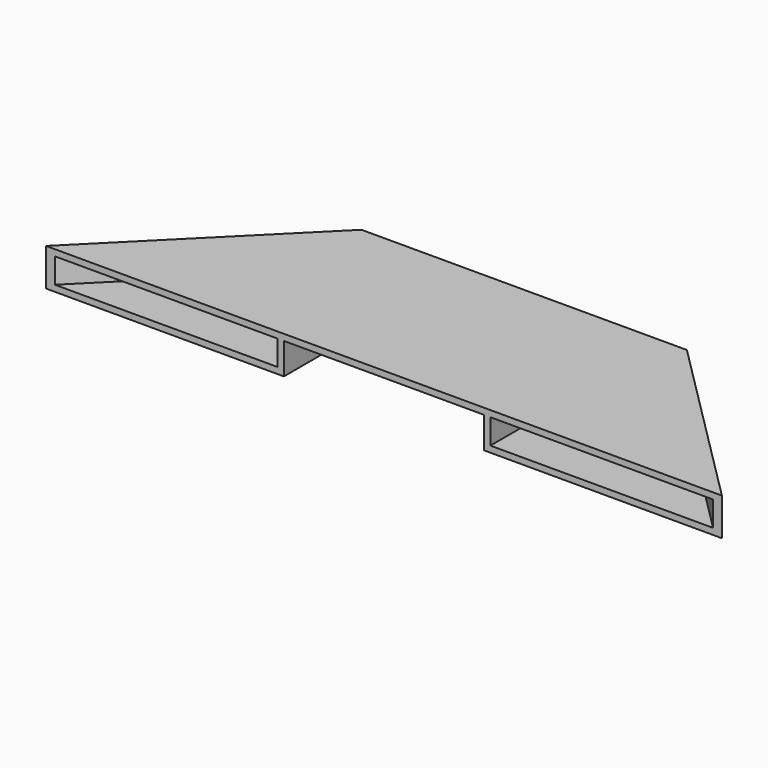
from build123d import *

# Parameters (mm, degrees)
F0_W     = 25
F0_H     = 450
F1_DEPTH = 125
F2_DEPTH = 25
F3_START = 124.9
F0_W_2   = 400
F3_DEPTH = 25.1


with BuildPart() as f1:
    # F0 (on Top) → F1 (new body)
    with BuildSketch(Plane.XY):
        Polygon((-864.6446609407, -250), (-900, -250), (-1350, -700), (-1314.6446609407, -700), align=None)
        Polygon((-839.6446609407, -225), (-875, -225), (-900, -250), (-864.6446609407, -250), align=None)
        Polygon((-614.6446609407, 0), (-650, 0), (-875, -225), (-839.6446609407, -225), (-639.6446609407, -25), align=None)
        Polygon((0, -225), (-839.6446609407, -225), (-864.6446609407, -250), (-425, -250), (-400, -250), (0, -250), align=None)
        Polygon((0, 0), (-614.6446609407, 0), (-639.6446609407, -25), (0, -25), align=None)
        Polygon((614.6446609407, 0), (0, 0), (0, -25), (639.6446609407, -25), align=None)
        Polygon((839.6446609407, -225), (0, -225), (0, -250), (400, -250), (425, -250), (864.6446609407, -250), align=None)
        with Locations((412.5, -475)):
            Rectangle(F0_W, F0_H)
        with Locations((-412.5, -475)):
            Rectangle(F0_W, F0_H)
        Polygon((650, 0), (614.6446609407, 0), (639.6446609407, -25), (839.6446609407, -225), (875, -225), align=None)
        Polygon((900, -250), (864.6446609407, -250), (1314.6446609407, -700), (1350, -700), align=None)
        Polygon((875, -225), (839.6446609407, -225), (864.6446609407, -250), (900, -250), align=None)
    extrude(amount=F1_DEPTH)

    # F0 (on Top) → F2 (join)
    with BuildSketch(Plane.XY):
        Polygon((1314.6446609407, -700), (864.6446609407, -250), (425, -250), (425, -700), align=None)
        Polygon((839.6446609407, -225), (0, -225), (0, -250), (400, -250), (425, -250), (864.6446609407, -250), align=None)
        Polygon((875, -225), (839.6446609407, -225), (864.6446609407, -250), (900, -250), align=None)
        Polygon((900, -250), (864.6446609407, -250), (1314.6446609407, -700), (1350, -700), align=None)
        Polygon((650, 0), (614.6446609407, 0), (639.6446609407, -25), (839.6446609407, -225), (875, -225), align=None)
        Polygon((639.6446609407, -25), (0, -25), (0, -225), (839.6446609407, -225), align=None)
        with Locations((412.5, -475)):
            Rectangle(F0_W, F0_H)
        Polygon((614.6446609407, 0), (0, 0), (0, -25), (639.6446609407, -25), align=None)
        Polygon((0, 0), (-614.6446609407, 0), (-639.6446609407, -25), (0, -25), align=None)
        Polygon((0, -25), (-639.6446609407, -25), (-839.6446609407, -225), (0, -225), align=None)
        Polygon((0, -225), (-839.6446609407, -225), (-864.6446609407, -250), (-425, -250), (-400, -250), (0, -250), align=None)
        with Locations((-412.5, -475)):
            Rectangle(F0_W, F0_H)
        Polygon((-425, -250), (-864.6446609407, -250), (-1314.6446609407, -700), (-425, -700), align=None)
        Polygon((-614.6446609407, 0), (-650, 0), (-875, -225), (-839.6446609407, -225), (-639.6446609407, -25), align=None)
        Polygon((-839.6446609407, -225), (-875, -225), (-900, -250), (-864.6446609407, -250), align=None)
        Polygon((-864.6446609407, -250), (-900, -250), (-1350, -700), (-1314.6446609407, -700), align=None)
    extrude(amount=F2_DEPTH)

    # F0 (on Top) → F3 (join)
    with BuildSketch(Plane.XY.offset(F3_START)):
        Polygon((-614.6446609407, 0), (-650, 0), (-875, -225), (-839.6446609407, -225), (-639.6446609407, -25), align=None)
        Polygon((0, 0), (-614.6446609407, 0), (-639.6446609407, -25), (0, -25), align=None)
        Polygon((-839.6446609407, -225), (-875, -225), (-900, -250), (-864.6446609407, -250), align=None)
        Polygon((614.6446609407, 0), (0, 0), (0, -25), (639.6446609407, -25), align=None)
        Polygon((-864.6446609407, -250), (-900, -250), (-1350, -700), (-1314.6446609407, -700), align=None)
        Polygon((650, 0), (614.6446609407, 0), (639.6446609407, -25), (839.6446609407, -225), (875, -225), align=None)
        Polygon((-425, -250), (-864.6446609407, -250), (-1314.6446609407, -700), (-425, -700), align=None)
        with Locations((-412.5, -475)):
            Rectangle(F0_W, F0_H)
        with Locations((200, -475)):
            Rectangle(F0_W_2, F0_H)
        with Locations((-200, -475)):
            Rectangle(F0_W_2, F0_H)
        Polygon((875, -225), (839.6446609407, -225), (864.6446609407, -250), (900, -250), align=None)
        with Locations((412.5, -475)):
            Rectangle(F0_W, F0_H)
        Polygon((1314.6446609407, -700), (864.6446609407, -250), (425, -250), (425, -700), align=None)
        Polygon((900, -250), (864.6446609407, -250), (1314.6446609407, -700), (1350, -700), align=None)
        Polygon((639.6446609407, -25), (0, -25), (0, -225), (839.6446609407, -225), align=None)
        Polygon((0, -25), (-639.6446609407, -25), (-839.6446609407, -225), (0, -225), align=None)
        Polygon((839.6446609407, -225), (0, -225), (0, -250), (400, -250), (425, -250), (864.6446609407, -250), align=None)
        Polygon((0, -225), (-839.6446609407, -225), (-864.6446609407, -250), (-425, -250), (-400, -250), (0, -250), align=None)
    extrude(amount=F3_DEPTH)


solid = f1.part
